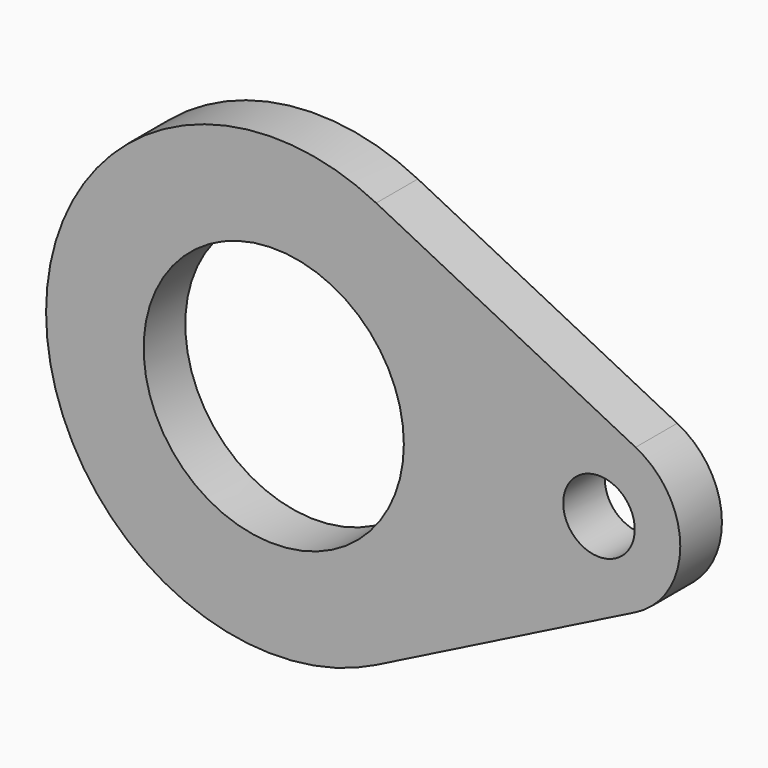
from build123d import *

# Parameters (mm, degrees)
F0_R     = 20
F0_R_2   = 5.5
F1_DEPTH = 8


with BuildPart() as f1:
    # F0 (on Front) → F1 (new body)
    with BuildSketch(Plane.XZ):
        with BuildLine():
            Line((55.625, 11.162857), (15.75, 31.255999))
            ThreePointArc((15.75, 31.255999), (-35, 0), (15.75, -31.255999))
            Line((15.75, -31.255999), (55.625, -11.162857))
            ThreePointArc((55.625, -11.162857), (62.5, 0), (55.625, 11.162857))
        make_face()
        Circle(F0_R, mode=Mode.SUBTRACT)
        with Locations((50, 0)):
            Circle(F0_R_2, mode=Mode.SUBTRACT)
    extrude(amount=F1_DEPTH)


solid = f1.part
